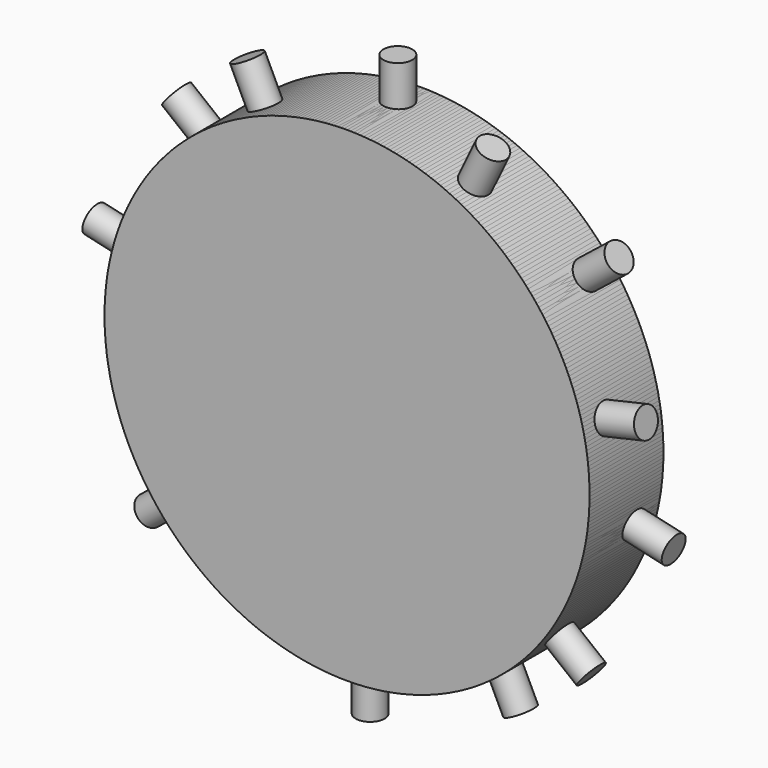
from build123d import *

# Parameters (mm, degrees)
F0_R     = 66.675
F1_DEPTH = 25.4
F2_R     = 3.96875
F3_DEPTH = 77.7875
F5_COUNT = 7
F4_R     = 3.96875
F6_DEPTH = 77.7875
F7_COUNT = 7


with BuildPart() as f1:
    # F0 (on Front) → F1 (new body)
    with BuildSketch(Plane.XZ):
        Circle(F0_R)
    extrude(amount=F1_DEPTH)

    # F2 (on Top) → F3 (join)
    with BuildSketch(Plane.XY):
        with Locations((0, -7.9375)):
            Circle(F2_R)
    extrude(amount=F3_DEPTH)


with BuildPart() as f5_1:
    # F5: instance of F1
    add(f1.part.rotate(Axis((0, 0, 0), (0, -1, 0)), 1 * 360 / F5_COUNT))


with BuildPart() as f5_2:
    # F5: instance of F1
    add(f1.part.rotate(Axis((0, 0, 0), (0, -1, 0)), 2 * 360 / F5_COUNT))


with BuildPart() as f5_3:
    # F5: instance of F1
    add(f1.part.rotate(Axis((0, 0, 0), (0, -1, 0)), 3 * 360 / F5_COUNT))


with BuildPart() as f5_4:
    # F5: instance of F1
    add(f1.part.rotate(Axis((0, 0, 0), (0, -1, 0)), 4 * 360 / F5_COUNT))


with BuildPart() as f5_5:
    # F5: instance of F1
    add(f1.part.rotate(Axis((0, 0, 0), (0, -1, 0)), 5 * 360 / F5_COUNT))


with BuildPart() as f5_6:
    # F5: instance of F1
    add(f1.part.rotate(Axis((0, 0, 0), (0, -1, 0)), 6 * 360 / F5_COUNT))


with BuildPart() as f6:
    # F4 (on Top) → F6 (new body)
    with BuildSketch(Plane.XY):
        with Locations((0, -17.4625)):
            Circle(F4_R)
    extrude(amount=-F6_DEPTH)


with BuildPart() as f7_1:
    # F7: instance of F6
    add(f6.part.rotate(Axis((0, -25.4, 0), (0, -1, 0)), 1 * 360 / F7_COUNT))


with BuildPart() as f7_2:
    # F7: instance of F6
    add(f6.part.rotate(Axis((0, -25.4, 0), (0, -1, 0)), 2 * 360 / F7_COUNT))


with BuildPart() as f7_3:
    # F7: instance of F6
    add(f6.part.rotate(Axis((0, -25.4, 0), (0, -1, 0)), 3 * 360 / F7_COUNT))


with BuildPart() as f7_4:
    # F7: instance of F6
    add(f6.part.rotate(Axis((0, -25.4, 0), (0, -1, 0)), 4 * 360 / F7_COUNT))


with BuildPart() as f7_5:
    # F7: instance of F6
    add(f6.part.rotate(Axis((0, -25.4, 0), (0, -1, 0)), 5 * 360 / F7_COUNT))


with BuildPart() as f7_6:
    # F7: instance of F6
    add(f6.part.rotate(Axis((0, -25.4, 0), (0, -1, 0)), 6 * 360 / F7_COUNT))


with BuildPart() as f7_7:
    # F7: instance of F1
    add(f1.part.rotate(Axis((0, -25.4, 0), (0, -1, 0)), 1 * 360 / F7_COUNT))


with BuildPart() as f7_8:
    # F7: instance of F1
    add(f1.part.rotate(Axis((0, -25.4, 0), (0, -1, 0)), 2 * 360 / F7_COUNT))


with BuildPart() as f7_9:
    # F7: instance of F1
    add(f1.part.rotate(Axis((0, -25.4, 0), (0, -1, 0)), 3 * 360 / F7_COUNT))


with BuildPart() as f7_10:
    # F7: instance of F1
    add(f1.part.rotate(Axis((0, -25.4, 0), (0, -1, 0)), 4 * 360 / F7_COUNT))


with BuildPart() as f7_11:
    # F7: instance of F1
    add(f1.part.rotate(Axis((0, -25.4, 0), (0, -1, 0)), 5 * 360 / F7_COUNT))


with BuildPart() as f7_12:
    # F7: instance of F1
    add(f1.part.rotate(Axis((0, -25.4, 0), (0, -1, 0)), 6 * 360 / F7_COUNT))


solid = Compound([f1.part, f5_1.part, f5_2.part, f5_3.part, f5_4.part, f5_5.part, f5_6.part, f6.part, f7_1.part, f7_2.part, f7_3.part, f7_4.part, f7_5.part, f7_6.part, f7_7.part, f7_8.part, f7_9.part, f7_10.part, f7_11.part, f7_12.part])
